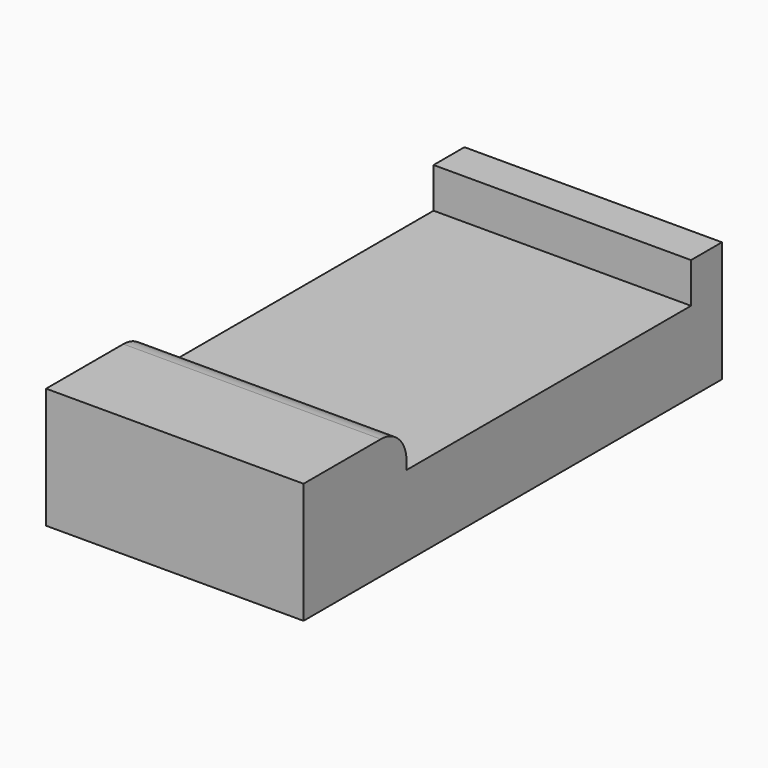
from build123d import *

# Parameters (mm, degrees)
F0_W     = 10.16
F0_H     = 14.0335
F1_DEPTH = 3.175
F0_H_2   = 5.08
F0_H_3   = 1.524
F2_DEPTH = 4.7625
F3_R     = 1.27


with BuildPart() as f1:
    # F0 (on Top) → F1 (new body)
    with BuildSketch(Plane.XY):
        with Locations((0, 1.778)):
            Rectangle(F0_W, F0_H)
    extrude(amount=F1_DEPTH)

    # F0 (on Top) → F2 (join)
    with BuildSketch(Plane.XY):
        with Locations((0, -7.77875)):
            Rectangle(F0_W, F0_H_2)
        with Locations((0, 9.55675)):
            Rectangle(F0_W, F0_H_3)
    extrude(amount=F2_DEPTH)

    # F3
    f3_edges = [f1.edges().sort_by_distance(p)[0] for p in [
        (0, -5.23875, 4.7625),
    ]]
    fillet(f3_edges, radius=F3_R)


solid = f1.part
